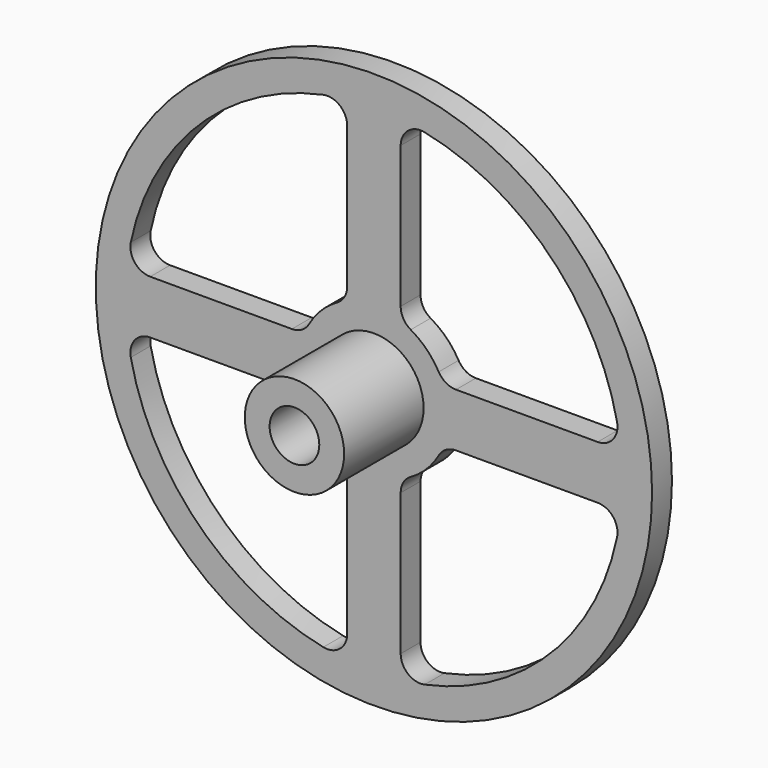
from build123d import *

# Parameters (mm, degrees)
F0_R     = 71.12
F0_R_2   = 12.7
F0_R_3   = 6.35
F1_DEPTH = 6.35
F2_R     = 12.7
F2_R_2   = 6.35
F3_DEPTH = 25.4
F4_R     = 5.08


with BuildPart() as f1:
    # F0 (on Front) → F1 (new body)
    with BuildSketch(Plane.XZ):
        Circle(F0_R)
        with BuildLine():
            Line((-6.839159, -17.78), (-6.839159, -63.130626))
            ThreePointArc((-6.839159, -63.130626), (-44.901281, -44.901281), (-63.130626, -6.839159))
            Line((-63.130626, -6.839159), (-17.78, -6.839159))
            ThreePointArc((-17.78, -6.839159), (-13.470384, -13.470384), (-6.839159, -17.78))
        make_face(mode=Mode.SUBTRACT)
        Circle(F0_R_2, mode=Mode.SUBTRACT)
        with BuildLine():
            Line((17.78, -6.839159), (63.130626, -6.839159))
            ThreePointArc((63.130626, -6.839159), (44.901281, -44.901281), (6.839159, -63.130626))
            Line((6.839159, -63.130626), (6.839159, -17.78))
            ThreePointArc((6.839159, -17.78), (13.470384, -13.470384), (17.78, -6.839159))
        make_face(mode=Mode.SUBTRACT)
        with BuildLine():
            Line((-6.839159, 63.130626), (-6.839159, 17.78))
            ThreePointArc((-6.839159, 17.78), (-13.470384, 13.470384), (-17.78, 6.839159))
            Line((-17.78, 6.839159), (-63.130626, 6.839159))
            ThreePointArc((-63.130626, 6.839159), (-44.901281, 44.901281), (-6.839159, 63.130626))
        make_face(mode=Mode.SUBTRACT)
        with BuildLine():
            ThreePointArc((6.839159, 63.130626), (44.901281, 44.901281), (63.130626, 6.839159))
            Line((63.130626, 6.839159), (17.78, 6.839159))
            ThreePointArc((17.78, 6.839159), (13.470384, 13.470384), (6.839159, 17.78))
            Line((6.839159, 17.78), (6.839159, 63.130626))
        make_face(mode=Mode.SUBTRACT)
        Circle(F0_R_2)
        Circle(F0_R_3, mode=Mode.SUBTRACT)
    extrude(amount=F1_DEPTH)

    # F2 (on face) → F3 (join)
    with BuildSketch(Plane.XZ.offset(6.35)):
        Circle(F2_R)
        Circle(F2_R_2, mode=Mode.SUBTRACT)
    extrude(amount=F3_DEPTH)

    # F4
    f4_edges = [f1.edges().sort_by_distance(p)[0] for p in [
        (6.839159, -3.175, 63.130626),
        (6.839159, -3.175, 17.78),
        (17.78, -3.175, 6.839159),
        (63.130626, -3.175, 6.839159),
        (17.78, -3.175, -6.839159),
        (6.839159, -3.175, -17.78),
        (63.130626, -3.175, -6.839159),
        (6.839159, -3.175, -63.130626),
        (-6.839159, -3.175, -63.130626),
        (-17.78, -3.175, -6.839159),
        (-6.839159, -3.175, -17.78),
        (-63.130626, -3.175, -6.839159),
        (-17.78, -3.175, 6.839159),
        (-63.130626, -3.175, 6.839159),
        (-6.839159, -3.175, 63.130626),
        (-6.839159, -3.175, 17.78),
    ]]
    fillet(f4_edges, radius=F4_R)


solid = f1.part
